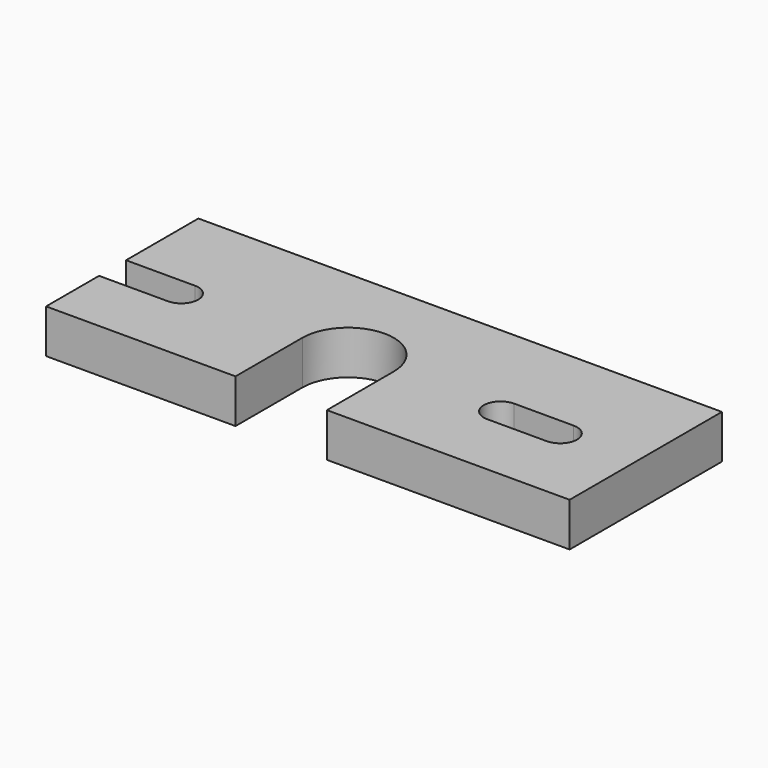
from build123d import *

# Parameters (mm, degrees)
F1_DEPTH = 2.921


with BuildPart() as f1:
    # F0 (on Top) → F1 (new body, symmetric)
    with BuildSketch(Plane.XY):
        with BuildLine():
            Line((34.925, -12.7), (34.925, 12.7))
            Line((34.925, 12.7), (-34.925, 12.7))
            Line((-34.925, 12.7), (-34.925, 0.635))
            Line((-34.925, 0.635), (-25.745, 0.635))
            ThreePointArc((-25.745, 0.635), (-23.495, -1.615), (-25.745, -3.865))
            Line((-25.745, -3.865), (-34.925, -3.865))
            Line((-34.925, -3.865), (-34.925, -12.7))
            Line((-34.925, -12.7), (-9.652125, -12.7))
            Line((-9.652125, -12.7), (-9.652125, -1.551487))
            ThreePointArc((-9.652125, -1.551487), (-3.556125, 4.544513), (2.539875, -1.551487))
            Line((2.539875, -1.551487), (2.539875, -12.7))
            Line((2.539875, -12.7), (34.925, -12.7))
        make_face()
        with BuildLine():
            Line((16.855, 0.635), (24.801, 0.635))
            ThreePointArc((24.801, 0.635), (27.051, -1.615), (24.801, -3.865))
            Line((24.801, -3.865), (16.855, -3.865))
            ThreePointArc((16.855, -3.865), (14.605, -1.615), (16.855, 0.635))
        make_face(mode=Mode.SUBTRACT)
    extrude(amount=F1_DEPTH, both=True)


solid = f1.part
